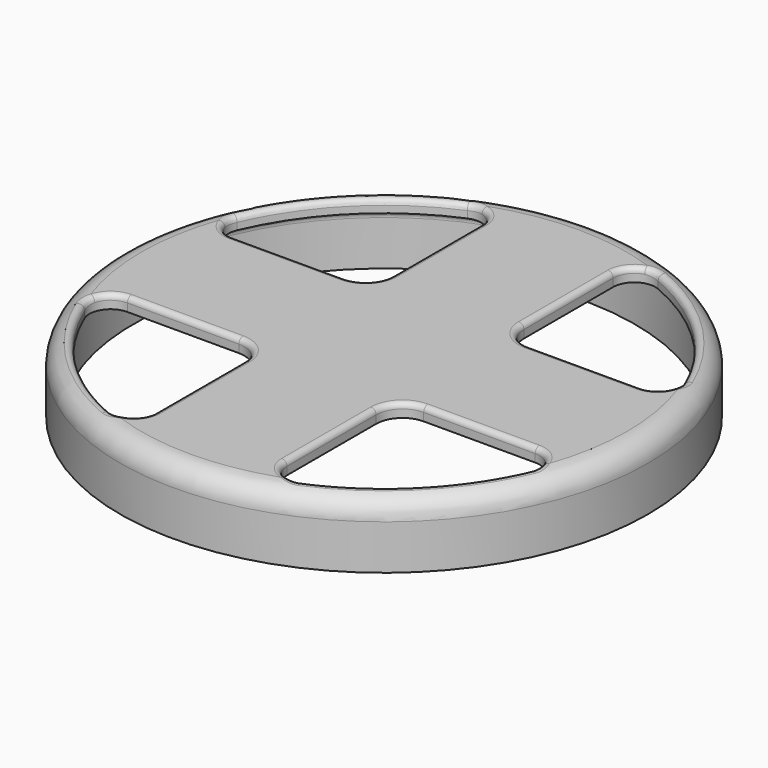
from build123d import *

# Parameters (mm, degrees)
F0_R     = 63.5
F1_DEPTH = 15.875
F2_R     = 5.08
F3_T     = -3.175
F5_DEPTH = 25.4
F6_R     = 5.08
F7_R     = 1.27


with BuildPart() as f1:
    # F0 (on Top) → F1 (new body)
    with BuildSketch(Plane.XY):
        Circle(F0_R)
    extrude(amount=F1_DEPTH)

    # F2
    f2_edges = [f1.edges().sort_by_distance(p)[0] for p in [
        (-63.5, 0, 15.875),
    ]]
    fillet(f2_edges, radius=F2_R)

    # F3
    f3_openings = [f1.faces().sort_by_distance(p)[0] for p in [
        (0, 0, 0),
    ]]
    offset(amount=F3_T, openings=f3_openings)

    # F4 (on face) → F5 (cut)
    with BuildSketch(Plane.XY.offset(15.875)):
        with BuildLine():
            Line((-15.875, 22.225), (-15.875, 56.2217108865))
            ThreePointArc((-15.875, 56.2217108865), (-41.3091781569, 41.3091781569), (-56.2217108865, 15.875))
            Line((-56.2217108865, 15.875), (-22.225, 15.875))
            ThreePointArc((-22.225, 15.875), (-17.7348719395, 17.7348719395), (-15.875, 22.225))
        make_face()
        with BuildLine():
            ThreePointArc((56.2217108865, 15.875), (41.3091781569, 41.3091781569), (15.875, 56.2217108865))
            Line((15.875, 56.2217108865), (15.875, 22.225))
            ThreePointArc((15.875, 22.225), (17.7348719395, 17.7348719395), (22.225, 15.875))
            Line((22.225, 15.875), (56.2217108865, 15.875))
        make_face()
        with BuildLine():
            ThreePointArc((15.875, -56.2217108865), (41.3091781569, -41.3091781569), (56.2217108865, -15.875))
            Line((56.2217108865, -15.875), (22.225, -15.875))
            ThreePointArc((22.225, -15.875), (17.7348719395, -17.7348719395), (15.875, -22.225))
            Line((15.875, -22.225), (15.875, -56.2217108865))
        make_face()
        with BuildLine():
            Line((-22.225, -15.875), (-56.2217108865, -15.875))
            ThreePointArc((-56.2217108865, -15.875), (-41.3091781569, -41.3091781569), (-15.875, -56.2217108865))
            Line((-15.875, -56.2217108865), (-15.875, -22.225))
            ThreePointArc((-15.875, -22.225), (-17.7348719395, -17.7348719395), (-22.225, -15.875))
        make_face()
    extrude(amount=-F5_DEPTH, mode=Mode.SUBTRACT)

    # F6
    f6_edges = [f1.edges().sort_by_distance(p)[0] for p in [
        (-15.875, -56.221711, 14.2875),
        (15.875, -56.221711, 14.2875),
        (56.221711, -15.875, 14.2875),
        (56.221711, 15.875, 14.2875),
        (15.875, 56.221711, 14.2875),
        (-15.875, 56.221711, 14.2875),
        (-56.221711, 15.875, 14.2875),
        (-56.221711, -15.875, 14.2875),
    ]]
    fillet(f6_edges, radius=F6_R)

    # F7
    f7_edges = [f1.edges().sort_by_distance(p)[0] for p in [
        (-35.638219, 15.875, 15.875),
        (-35.638219, -15.875, 15.875),
        (35.638219, 15.875, 15.875),
        (35.638219, -15.875, 15.875),
    ]]
    fillet(f7_edges, radius=F7_R)


solid = f1.part
